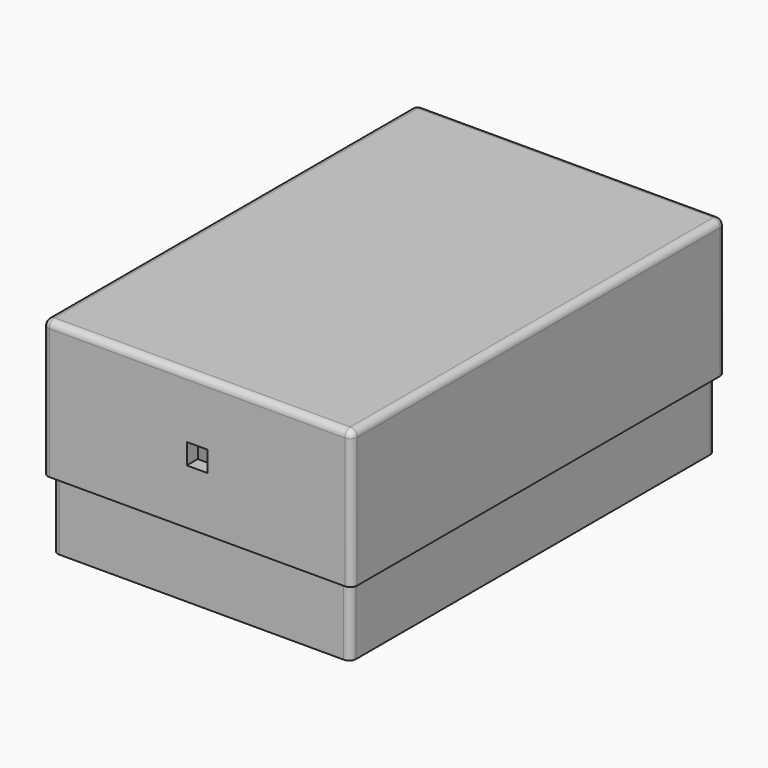
from build123d import *

# Parameters (mm, degrees)
SKETCH011_W     = 45
SKETCH011_H     = 68
PAD007_DEPTH    = 2
SKETCH012_W     = 45
SKETCH012_H     = 68
SKETCH012_W_2   = 41
SKETCH012_H_2   = 64
PAD008_DEPTH    = 18
SKETCH013_W     = 43.4
SKETCH013_H     = 66.4
SKETCH013_W_2   = 41
SKETCH013_H_2   = 64
PAD009_DEPTH    = 10
SKETCH014_W     = 3
SKETCH014_H     = 3
POCKET004_DEPTH = 5
FILLET_R        = 1
FILLET002_R     = 1


with BuildPart() as part:
    # Sketch011 → Pad007 (new body)
    with BuildSketch(Plane.XY):
        Rectangle(SKETCH011_W, SKETCH011_H)
    extrude(amount=-PAD007_DEPTH)

    # Sketch012 (on Face6 of Pad007) → Pad008 (join)
    with BuildSketch(Plane(origin=(0, 0, -2), x_dir=(1, 0, 0), z_dir=(0, 0, -1))):
        Rectangle(SKETCH012_W, SKETCH012_H)
        Rectangle(SKETCH012_W_2, SKETCH012_H_2, mode=Mode.SUBTRACT)
    extrude(amount=PAD008_DEPTH)

    # Sketch013 (on Face9 of Pad008) → Pad009 (join)
    with BuildSketch(Plane(origin=(0, 0, -20), x_dir=(1, 0, 0), z_dir=(0, 0, -1))):
        Rectangle(SKETCH013_W, SKETCH013_H)
        Rectangle(SKETCH013_W_2, SKETCH013_H_2, mode=Mode.SUBTRACT)
    extrude(amount=PAD009_DEPTH)

    # Sketch014 (on Face10 of Pad009) → Pocket004 (cut)
    with BuildSketch(Plane.XZ.offset(34)):
        with Locations((0, -10.5)):
            Rectangle(SKETCH014_W, SKETCH014_H)
    extrude(amount=-POCKET004_DEPTH, mode=Mode.SUBTRACT)

    # Fillet
    fillet_edges = [part.edges().sort_by_distance(p)[0] for p in [
        (-22.5, 0, 0),
        (0, 34, 0),
        (22.5, 0, 0),
        (0, -34, 0),
        (-22.5, -34, -11),
        (-22.5, 34, -11),
        (22.5, -34, -11),
        (22.5, 34, -11),
    ]]
    fillet(fillet_edges, radius=FILLET_R)

    # Fillet002
    fillet002_edges = [part.edges().sort_by_distance(p)[0] for p in [
        (-20.5, -32, -25),
        (-21.7, -33.2, -25),
        (21.7, -33.2, -25),
        (20.5, -32, -25),
        (21.7, 33.2, -25),
        (20.5, 32, -25),
        (-21.7, 33.2, -25),
        (-20.5, 32, -25),
    ]]
    fillet(fillet002_edges, radius=FILLET002_R)


with BuildPart() as part_1:
    # Body002 placement: moved
    add(part.part.moved(Location((0, 0, 21))))


solid = part_1.part
